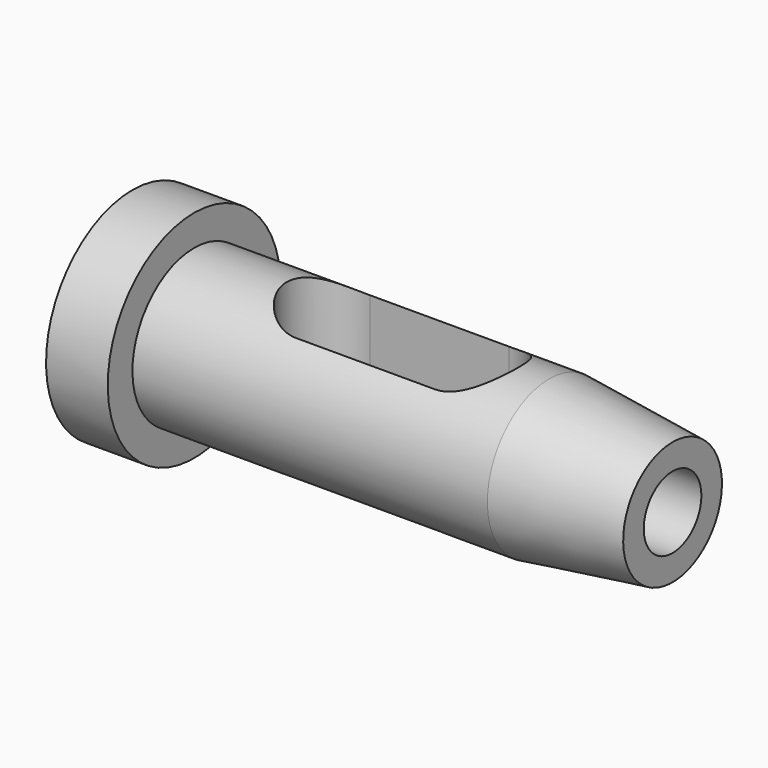
from build123d import *

# Parameters (mm, degrees)
F3_DEPTH      = 21.001
F3_DEPTH_BACK = 21.001
F4_R          = 7
F5_DEPTH      = 34.3431458505


with BuildPart() as f1:
    # F0 (on Front) → F1 (revolve)
    with BuildSketch(Plane.XZ):
        Polygon((-105, 21), (-105, 0), (0, 0), (0, 12), (-24, 15), (-93, 15), (-93, 21), align=None)
    revolve(axis=Axis((-52.5, 0, 0), (1, 0, 0)))

    # F2 (on Top) → F3 (cut, two sides)
    with BuildSketch(Plane.XY) as f3_sk:
        with BuildLine():
            ThreePointArc((-39, -9), (-30, 0), (-39, 9))
            Line((-39, 9), (-66, 9))
            ThreePointArc((-66, 9), (-75, 0), (-66, -9))
            Line((-66, -9), (-39, -9))
        make_face()
    extrude(amount=-F3_DEPTH, mode=Mode.SUBTRACT)
    extrude(f3_sk.sketch, amount=F3_DEPTH_BACK, mode=Mode.SUBTRACT)

    # F4 (on face) → F5 (cut, up to face)
    with BuildSketch(Plane.YZ):
        Circle(F4_R)
    extrude(amount=-F5_DEPTH, mode=Mode.SUBTRACT)


solid = f1.part
